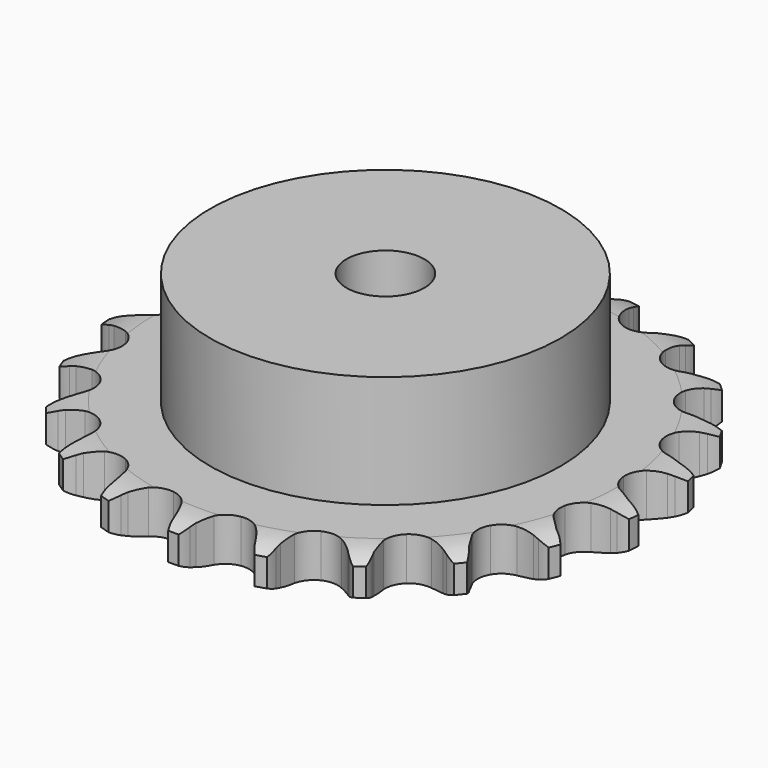
from build123d import *

# Parameters (mm, degrees)
PAD_DEPTH         = 11.1
SKETCH001_R       = 45
PAD001_DEPTH      = 40
SKETCH002_R       = 10
POCKET_DEPTH      = 0.001
POCKET_DEPTH_BACK = -40.001


with BuildPart() as part:
    # Sprocket → Pad (new body)
    with BuildSketch(Plane.XY):
        with BuildLine():
            ThreePointArc((-10.414973, 69.098829), (-8.724114, 67.329966), (-7.515976, 65.201991))
            Line((-7.515976, 65.201991), (-6.933334, 63.79702))
            ThreePointArc((-6.933334, 63.79702), (-5.997831, 61.908917), (-4.8188, 60.162498))
            ThreePointArc((-4.8188, 60.162498), (-2.682336, 58.425798), (0, 57.804771))
            ThreePointArc((0, 57.804771), (2.682336, 58.425798), (4.8188, 60.162498))
            ThreePointArc((4.8188, 60.162498), (5.997831, 61.908917), (6.933334, 63.79702))
            Line((6.933334, 63.79702), (7.515976, 65.201991))
            ThreePointArc((7.515976, 65.201991), (8.724114, 67.329966), (10.414973, 69.098829))
            ThreePointArc((10.414973, 69.098829), (11.50933, 66.910163), (12.036562, 64.520622))
            Line((12.036562, 64.520622), (12.179197, 63.006333))
            ThreePointArc((12.179197, 63.006333), (12.516609, 60.92637), (13.128493, 58.910013))
            ThreePointArc((13.128493, 58.910013), (14.658139, 56.620737), (17.038255, 55.236667))
            ThreePointArc((17.038255, 55.236667), (19.784474, 55.039472), (22.337922, 56.069281))
            Line((22.337922, 56.069281), (25.429807, 58.919061))
            ThreePointArc((25.429807, 58.919061), (25.901113, 59.516189), (26.400686, 60.089876))
            ThreePointArc((26.400686, 60.089876), (28.182382, 61.767207), (30.319502, 62.959095))
            ThreePointArc((30.319502, 62.959095), (30.720119, 60.545097), (30.519599, 58.106313))
            Line((30.519599, 58.106313), (30.209552, 56.617257))
            ThreePointArc((30.209552, 56.617257), (29.918894, 54.530247), (29.909262, 52.423115))
            ThreePointArc((29.909262, 52.423115), (30.696174, 49.784674), (32.562587, 47.760543))
            ThreePointArc((32.562587, 47.760543), (35.128674, 46.762646), (37.872221, 46.994062))
            Line((37.872221, 46.994062), (41.66673, 48.805885))
            ThreePointArc((41.66673, 48.805885), (42.293104, 49.237564), (42.93958, 49.638513))
            ThreePointArc((42.93958, 49.638513), (45.136522, 50.71616), (47.530011, 51.225169))
            ThreePointArc((47.530011, 51.225169), (47.201291, 48.800335), (46.290835, 46.529003))
            Line((46.290835, 46.529003), (45.555656, 45.19749))
            ThreePointArc((45.555656, 45.19749), (44.662754, 43.288872), (44.032462, 41.278194))
            ThreePointArc((44.032462, 41.278194), (44.006719, 38.525024), (45.19359, 36.040685))
            ThreePointArc((45.19359, 36.040685), (47.351538, 34.330755), (50.041408, 33.743214))
            Line((50.041408, 33.743214), (54.201381, 34.356093))
            ThreePointArc((54.201381, 34.356093), (54.927167, 34.583966), (55.663103, 34.77655))
            ThreePointArc((55.663103, 34.77655), (58.080084, 35.15876), (60.517269, 34.939662))
            ThreePointArc((60.517269, 34.939662), (59.488421, 32.719448), (57.948927, 30.817387))
            Line((57.948927, 30.817387), (56.85394, 29.761727))
            ThreePointArc((56.85394, 29.761727), (55.438132, 28.201091), (54.243185, 26.465523))
            ThreePointArc((54.243185, 26.465523), (53.407075, 23.842257), (53.808944, 21.118454))
            ThreePointArc((53.808944, 21.118454), (55.36701, 18.848425), (57.764195, 17.494134))
            Line((57.764195, 17.494134), (61.920002, 16.85361))
            ThreePointArc((61.920002, 16.85361), (62.68071, 16.857431), (63.440716, 16.824537))
            ThreePointArc((63.440716, 16.824537), (65.862975, 16.47735), (68.127303, 15.549612))
            ThreePointArc((68.127303, 15.549612), (66.489744, 13.731295), (64.458003, 12.367511))
            Line((64.458003, 12.367511), (63.100502, 11.681504))
            ThreePointArc((63.100502, 11.681504), (61.287589, 10.607519), (59.634162, 9.301275))
            ThreePointArc((59.634162, 9.301275), (58.061977, 7.041001), (57.643137, 4.319756))
            ThreePointArc((57.643137, 4.319756), (58.462879, 1.691329), (60.354381, -0.309377))
            Line((60.354381, -0.309377), (64.136759, -2.146389))
            ThreePointArc((64.136759, -2.146389), (64.864797, -2.366961), (65.581342, -2.622409))
            ThreePointArc((65.581342, -2.622409), (67.793652, -3.668145), (69.683927, -5.222088))
            ThreePointArc((69.683927, -5.222088), (67.583162, -6.476945), (65.239703, -7.181273))
            Line((65.239703, -7.181273), (63.740307, -7.436672))
            ThreePointArc((63.740307, -7.436672), (61.691375, -7.928577), (59.726382, -8.689432))
            ThreePointArc((59.726382, -8.689432), (57.557818, -10.385879), (56.355485, -12.862772))
            ThreePointArc((56.355485, -12.862772), (56.364066, -15.616048), (57.581815, -18.085398))
            Line((57.581815, -18.085398), (60.654683, -20.955673))
            ThreePointArc((60.654683, -20.955673), (61.285362, -21.381038), (61.894779, -21.836342))
            ThreePointArc((61.894779, -21.836342), (63.700565, -23.487709), (65.048828, -25.529784))
            ThreePointArc((65.048828, -25.529784), (62.671518, -26.109679), (60.224568, -26.091969))
            Line((60.224568, -26.091969), (58.716507, -25.894067))
            ThreePointArc((58.716507, -25.894067), (56.613611, -25.760184), (54.511652, -25.908046))
            ThreePointArc((54.511652, -25.908046), (51.939394, -26.889928), (50.0604, -28.902385))
            ThreePointArc((50.0604, -28.902385), (49.257058, -31.535871), (49.692851, -34.254452))
            Line((49.692851, -34.254452), (51.783173, -37.902953))
            ThreePointArc((51.783173, -37.902953), (52.260453, -38.495316), (52.708592, -39.110021))
            ThreePointArc((52.708592, -39.110021), (53.947404, -41.220288), (54.633855, -43.569046))
            ThreePointArc((54.633855, -43.569046), (52.191236, -43.422453), (49.858217, -42.684279))
            Line((49.858217, -42.684279), (48.475487, -42.05066))
            ThreePointArc((48.475487, -42.05066), (46.505479, -41.302886), (44.453321, -40.824615))
            ThreePointArc((44.453321, -40.824615), (41.705927, -41.004689), (39.317229, -42.373896))
            ThreePointArc((39.317229, -42.373896), (37.773344, -44.653593), (37.38846, -47.379848))
            Line((37.38846, -47.379848), (38.3105, -51.482389))
            ThreePointArc((38.3105, -51.482389), (38.591975, -52.189116), (38.839016, -52.908603))
            ThreePointArc((38.839016, -52.908603), (39.400779, -55.290262), (39.364425, -57.737007))
            ThreePointArc((39.364425, -57.737007), (37.073533, -56.876952), (35.061744, -55.483904))
            Line((35.061744, -55.483904), (33.927207, -54.470868))
            ThreePointArc((33.927207, -54.470868), (32.265132, -53.175646), (30.445118, -52.113739))
            ThreePointArc((30.445118, -52.113739), (27.766705, -51.476003), (25.08055, -52.080299))
            ThreePointArc((25.08055, -52.080299), (22.933302, -53.803648), (21.761941, -56.295337))
            Line((21.761941, -56.295337), (21.433772, -60.487389))
            ThreePointArc((21.433772, -60.487389), (21.494429, -61.245685), (21.518423, -62.006023))
            ThreePointArc((21.518423, -62.006023), (21.353222, -64.447455), (20.597292, -66.774781))
            ThreePointArc((20.597292, -66.774781), (18.661684, -65.277684), (17.149881, -63.35354))
            Line((17.149881, -63.35354), (16.364346, -62.0511))
            ThreePointArc((16.364346, -62.0511), (15.157886, -60.323516), (13.731733, -58.772328))
            ThreePointArc((13.731733, -58.772328), (11.36029, -57.373449), (8.615354, -57.159139))
            ThreePointArc((8.615354, -57.159139), (6.055537, -58.173012), (4.201777, -60.208737))
            Line((4.201777, -60.208737), (2.652558, -64.117819))
            ThreePointArc((2.652558, -64.117819), (2.48701, -64.860305), (2.285824, -65.593936))
            ThreePointArc((2.285824, -65.593936), (1.408338, -67.878208), (0, -69.879324))
            ThreePointArc((0, -69.879324), (-1.408338, -67.878208), (-2.285824, -65.593936))
            Line((-2.285824, -65.593936), (-2.652558, -64.117819))
            ThreePointArc((-2.652558, -64.117819), (-3.296205, -62.111376), (-4.201777, -60.208737))
            ThreePointArc((-4.201777, -60.208737), (-6.055537, -58.173012), (-8.615354, -57.159139))
            ThreePointArc((-8.615354, -57.159139), (-11.36029, -57.373449), (-13.731733, -58.772328))
            Line((-13.731733, -58.772328), (-16.364346, -62.0511))
            ThreePointArc((-16.364346, -62.0511), (-16.741392, -62.711802), (-17.149881, -63.35354))
            ThreePointArc((-17.149881, -63.35354), (-18.661684, -65.277684), (-20.597292, -66.774781))
            ThreePointArc((-20.597292, -66.774781), (-21.353222, -64.447455), (-21.518423, -62.006023))
            Line((-21.518423, -62.006023), (-21.433772, -60.487389))
            ThreePointArc((-21.433772, -60.487389), (-21.457413, -58.380369), (-21.761941, -56.295337))
            ThreePointArc((-21.761941, -56.295337), (-22.933302, -53.803648), (-25.08055, -52.080299))
            ThreePointArc((-25.08055, -52.080299), (-27.766705, -51.476003), (-30.445118, -52.113739))
            Line((-30.445118, -52.113739), (-33.927207, -54.470868))
            ThreePointArc((-33.927207, -54.470868), (-34.482247, -54.991081), (-35.061744, -55.483904))
            ThreePointArc((-35.061744, -55.483904), (-37.073533, -56.876952), (-39.364425, -57.737007))
            ThreePointArc((-39.364425, -57.737007), (-39.400779, -55.290262), (-38.839016, -52.908603))
            Line((-38.839016, -52.908603), (-38.3105, -51.482389))
            ThreePointArc((-38.3105, -51.482389), (-37.712036, -49.462009), (-37.38846, -47.379848))
            ThreePointArc((-37.38846, -47.379848), (-37.773344, -44.653593), (-39.317229, -42.373896))
            ThreePointArc((-39.317229, -42.373896), (-41.705927, -41.004689), (-44.453321, -40.824615))
            Line((-44.453321, -40.824615), (-48.475487, -42.05066))
            ThreePointArc((-48.475487, -42.05066), (-49.159203, -42.384161), (-49.858217, -42.684279))
            ThreePointArc((-49.858217, -42.684279), (-52.191236, -43.422453), (-54.633855, -43.569046))
            ThreePointArc((-54.633855, -43.569046), (-53.947404, -41.220288), (-52.708592, -39.110021))
            Line((-52.708592, -39.110021), (-51.783173, -37.902953))
            ThreePointArc((-51.783173, -37.902953), (-50.61578, -36.148733), (-49.692851, -34.254452))
            ThreePointArc((-49.692851, -34.254452), (-49.257058, -31.535871), (-50.0604, -28.902385))
            ThreePointArc((-50.0604, -28.902385), (-51.939394, -26.889928), (-54.511652, -25.908046))
            Line((-54.511652, -25.908046), (-58.716507, -25.894067))
            ThreePointArc((-58.716507, -25.894067), (-59.468148, -26.011222), (-60.224568, -26.091969))
            ThreePointArc((-60.224568, -26.091969), (-62.671518, -26.109679), (-65.048828, -25.529784))
            ThreePointArc((-65.048828, -25.529784), (-63.700565, -23.487709), (-61.894779, -21.836342))
            Line((-61.894779, -21.836342), (-60.654683, -20.955673))
            ThreePointArc((-60.654683, -20.955673), (-59.022089, -19.623483), (-57.581815, -18.085398))
            ThreePointArc((-57.581815, -18.085398), (-56.364066, -15.616048), (-56.355485, -12.862772))
            ThreePointArc((-56.355485, -12.862772), (-57.557818, -10.385879), (-59.726382, -8.689432))
            Line((-59.726382, -8.689432), (-63.740307, -7.436672))
            ThreePointArc((-63.740307, -7.436672), (-64.493088, -7.327072), (-65.239703, -7.181273))
            ThreePointArc((-65.239703, -7.181273), (-67.583162, -6.476945), (-69.683927, -5.222088))
            ThreePointArc((-69.683927, -5.222088), (-67.793652, -3.668145), (-65.581342, -2.622409))
            Line((-65.581342, -2.622409), (-64.136759, -2.146389))
            ThreePointArc((-64.136759, -2.146389), (-62.184026, -1.354601), (-60.354381, -0.309377))
            ThreePointArc((-60.354381, -0.309377), (-58.462879, 1.691329), (-57.643137, 4.319756))
            ThreePointArc((-57.643137, 4.319756), (-58.061977, 7.041001), (-59.634162, 9.301275))
            Line((-59.634162, 9.301275), (-63.100502, 11.681504))
            ThreePointArc((-63.100502, 11.681504), (-63.787533, 12.00812), (-64.458003, 12.367511))
            ThreePointArc((-64.458003, 12.367511), (-66.489744, 13.731295), (-68.127303, 15.549612))
            ThreePointArc((-68.127303, 15.549612), (-65.862975, 16.47735), (-63.440716, 16.824537))
            Line((-63.440716, 16.824537), (-61.920002, 16.85361))
            ThreePointArc((-61.920002, 16.85361), (-59.82064, 17.034644), (-57.764195, 17.494134))
            ThreePointArc((-57.764195, 17.494134), (-55.36701, 18.848425), (-53.808944, 21.118454))
            ThreePointArc((-53.808944, 21.118454), (-53.407075, 23.842257), (-54.243185, 26.465523))
            Line((-54.243185, 26.465523), (-56.85394, 29.761727))
            ThreePointArc((-56.85394, 29.761727), (-57.414177, 30.276339), (-57.948927, 30.817387))
            ThreePointArc((-57.948927, 30.817387), (-59.488421, 32.719448), (-60.517269, 34.939662))
            ThreePointArc((-60.517269, 34.939662), (-58.080084, 35.15876), (-55.663103, 34.77655))
            Line((-55.663103, 34.77655), (-54.201381, 34.356093))
            ThreePointArc((-54.201381, 34.356093), (-52.141927, 33.910285), (-50.041408, 33.743214))
            ThreePointArc((-50.041408, 33.743214), (-47.351538, 34.330755), (-45.19359, 36.040685))
            ThreePointArc((-45.19359, 36.040685), (-44.006719, 38.525024), (-44.032462, 41.278194))
            Line((-44.032462, 41.278194), (-45.555656, 45.19749))
            ThreePointArc((-45.555656, 45.19749), (-45.939318, 45.854372), (-46.290835, 46.529003))
            ThreePointArc((-46.290835, 46.529003), (-47.201291, 48.800335), (-47.530011, 51.225169))
            ThreePointArc((-47.530011, 51.225169), (-45.136522, 50.71616), (-42.93958, 49.638513))
            Line((-42.93958, 49.638513), (-41.66673, 48.805885))
            ThreePointArc((-41.66673, 48.805885), (-39.830176, 47.772849), (-37.872221, 46.994062))
            ThreePointArc((-37.872221, 46.994062), (-35.128674, 46.762646), (-32.562587, 47.760543))
            ThreePointArc((-32.562587, 47.760543), (-30.696174, 49.784674), (-29.909262, 52.423115))
            Line((-29.909262, 52.423115), (-30.209552, 56.617257))
            ThreePointArc((-30.209552, 56.617257), (-30.38255, 57.358042), (-30.519599, 58.106313))
            ThreePointArc((-30.519599, 58.106313), (-30.720119, 60.545097), (-30.319502, 62.959095))
            ThreePointArc((-30.319502, 62.959095), (-28.182382, 61.767207), (-26.400686, 60.089876))
            Line((-26.400686, 60.089876), (-25.429807, 58.919061))
            ThreePointArc((-25.429807, 58.919061), (-23.979338, 57.390586), (-22.337922, 56.069281))
            ThreePointArc((-22.337922, 56.069281), (-19.784474, 55.039472), (-17.038255, 55.236667))
            ThreePointArc((-17.038255, 55.236667), (-14.658139, 56.620737), (-13.128493, 58.910013))
            Line((-13.128493, 58.910013), (-12.179197, 63.006333))
            ThreePointArc((-12.179197, 63.006333), (-12.126159, 63.765199), (-12.036562, 64.520622))
            ThreePointArc((-12.036562, 64.520622), (-11.50933, 66.910163), (-10.414973, 69.098829))
        make_face()
    extrude(amount=PAD_DEPTH)

    # Sketch → Groove (revolve, cut)
    with BuildSketch(Plane.XZ):
        with BuildLine():
            Line((59.514719, 0), (68, 0))
            Line((76.485281, 0), (68, 0))
            Line((76.485281, 11.1), (76.485281, 0))
            Line((68, 11.1), (76.485281, 11.1))
            Line((59.514719, 11.1), (68, 11.1))
            ThreePointArc((68, 9.1), (63.873618, 10.593242), (59.514719, 11.1))
            Line((68, 2), (68, 9.1))
            ThreePointArc((59.514719, 0), (63.873618, 0.506758), (68, 2))
        make_face()
    revolve(axis=Axis((0, 0, 0), (0, 0, 1)), mode=Mode.SUBTRACT)

    # Sketch001 → Pad001 (join)
    with BuildSketch(Plane.XY):
        Circle(SKETCH001_R)
    extrude(amount=PAD001_DEPTH)

    # Sketch002 → Pocket (cut, two sides)
    with BuildSketch(Plane.XY) as pocket_sk:
        Circle(SKETCH002_R)
    extrude(amount=-POCKET_DEPTH, mode=Mode.SUBTRACT)
    extrude(pocket_sk.sketch, amount=-POCKET_DEPTH_BACK, mode=Mode.SUBTRACT)


solid = part.part
